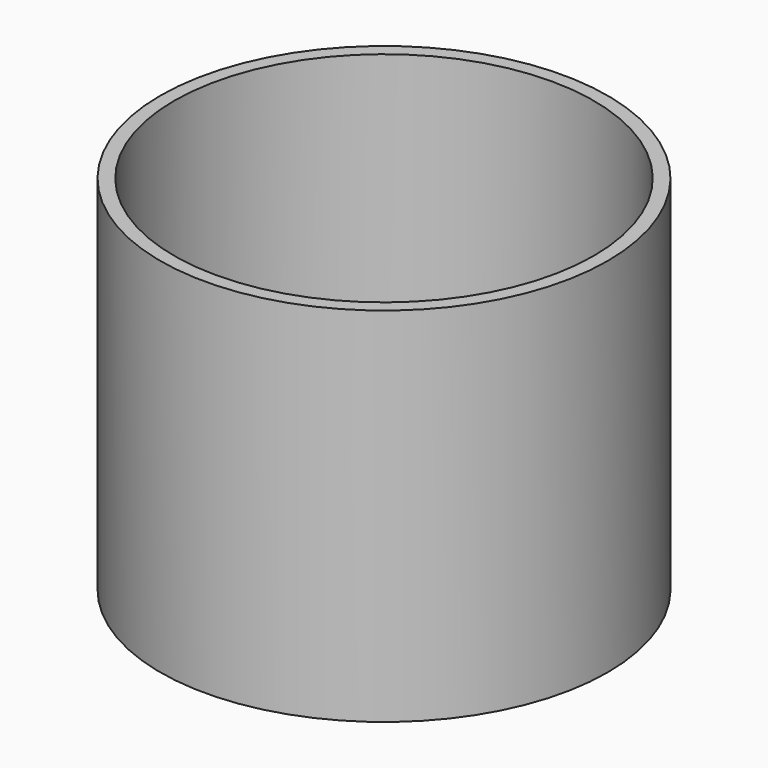
from build123d import *

# Parameters (mm, degrees)
CYLINDER001_R     = 19.7
CYLINDER001_DEPTH = 34
CYLINDER_R        = 21
CYLINDER_DEPTH    = 34


with BuildPart() as internal_cylinder:
    # Cylinder001 → Cylinder001 (new body)
    with BuildSketch(Plane.XY):
        Circle(CYLINDER001_R)
    extrude(amount=CYLINDER001_DEPTH)


with BuildPart() as umbrella_handle_protector:
    # Cylinder → Cylinder (new body)
    with BuildSketch(Plane.XY):
        Circle(CYLINDER_R)
    extrude(amount=CYLINDER_DEPTH)

    # Cut: cut internal cylinder
    add(internal_cylinder.part, mode=Mode.SUBTRACT)


solid = umbrella_handle_protector.part
